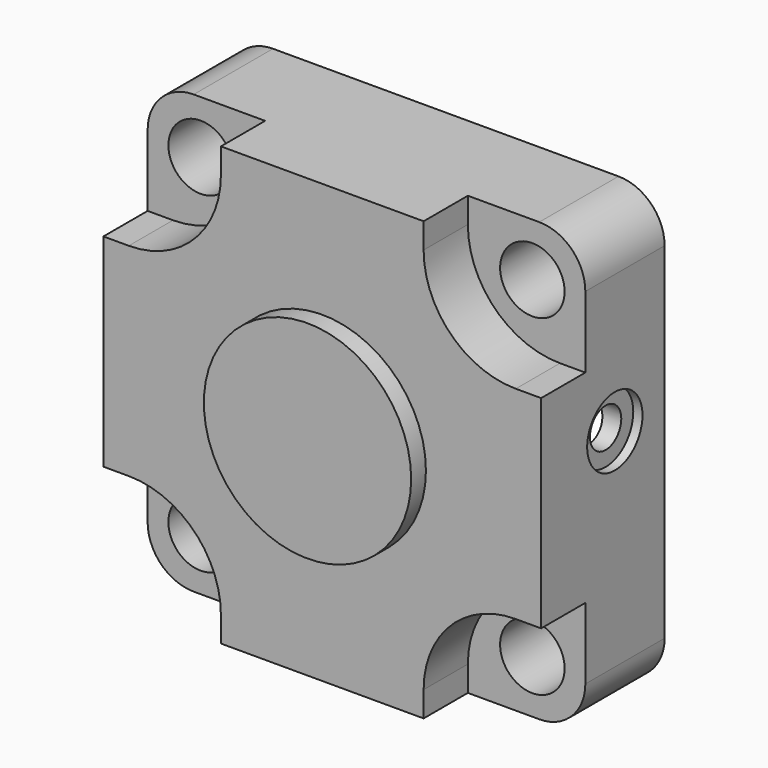
from build123d import *

# Parameters (mm, degrees)
F0_R      = 7
F1_DEPTH  = 16.75
F2_R      = 7
F3_DEPTH  = 12
F4_R      = 22.5
F5_DEPTH  = 4
F6_R      = 42
F8_DEPTH  = 18
F7_R      = 7.5
F7_R_2    = 4.25
F9_DEPTH  = 2
F10_DEPTH = 8


with BuildPart() as f1:
    # F0 (on Front) → F1 (new body, symmetric)
    with BuildSketch(Plane.XZ):
        with BuildLine():
            Line((-37.5, -47.5), (37.5, -47.5))
            ThreePointArc((37.5, -47.5), (44.5710678119, -44.5710678119), (47.5, -37.5))
            Line((47.5, -37.5), (47.5, 37.5))
            ThreePointArc((47.5, 37.5), (44.5710678119, 44.5710678119), (37.5, 47.5))
            Line((37.5, 47.5), (-37.5, 47.5))
            ThreePointArc((-37.5, 47.5), (-44.5710678119, 44.5710678119), (-47.5, 37.5))
            Line((-47.5, 37.5), (-47.5, -37.5))
            ThreePointArc((-47.5, -37.5), (-44.5710678119, -44.5710678119), (-37.5, -47.5))
        make_face()
        with Locations((-36, -36)):
            Circle(F0_R, mode=Mode.SUBTRACT)
        with Locations((36, -36)):
            Circle(F0_R, mode=Mode.SUBTRACT)
        with Locations((-36, 36)):
            Circle(F0_R, mode=Mode.SUBTRACT)
        with Locations((36, 36)):
            Circle(F0_R, mode=Mode.SUBTRACT)
    extrude(amount=F1_DEPTH, both=True)

    # F2 (on face) → F3 (cut)
    with BuildSketch(Plane.XZ.offset(16.75)):
        with BuildLine():
            Line((22, -42), (22, -47.5))
            Line((22, -47.5), (37.5, -47.5))
            ThreePointArc((37.5, -47.5), (44.5710678119, -44.5710678119), (47.5, -37.5))
            Line((47.5, -37.5), (47.5, -22))
            Line((47.5, -22), (42, -22))
            ThreePointArc((42, -22), (27.8578643763, -27.8578643763), (22, -42))
        make_face()
        with Locations((36, -36)):
            Circle(F2_R, mode=Mode.SUBTRACT)
        with BuildLine():
            Line((37.5, 47.5), (22, 47.5))
            Line((22, 47.5), (22, 42))
            ThreePointArc((22, 42), (27.8578643763, 27.8578643763), (42, 22))
            Line((42, 22), (47.5, 22))
            Line((47.5, 22), (47.5, 37.5))
            ThreePointArc((47.5, 37.5), (44.5710678119, 44.5710678119), (37.5, 47.5))
        make_face()
        with Locations((36, 36)):
            Circle(F2_R, mode=Mode.SUBTRACT)
        with BuildLine():
            Line((-47.5, 37.5), (-47.5, 22))
            Line((-47.5, 22), (-42, 22))
            ThreePointArc((-42, 22), (-27.8578643763, 27.8578643763), (-22, 42))
            Line((-22, 42), (-22, 47.5))
            Line((-22, 47.5), (-37.5, 47.5))
            ThreePointArc((-37.5, 47.5), (-44.5710678119, 44.5710678119), (-47.5, 37.5))
        make_face()
        with Locations((-36, 36)):
            Circle(F2_R, mode=Mode.SUBTRACT)
        with BuildLine():
            Line((-42, -22), (-47.5, -22))
            Line((-47.5, -22), (-47.5, -37.5))
            ThreePointArc((-47.5, -37.5), (-44.5710678119, -44.5710678119), (-37.5, -47.5))
            Line((-37.5, -47.5), (-22, -47.5))
            Line((-22, -47.5), (-22, -42))
            ThreePointArc((-22, -42), (-27.8578643763, -27.8578643763), (-42, -22))
        make_face()
        with Locations((-36, -36)):
            Circle(F2_R, mode=Mode.SUBTRACT)
    extrude(amount=-F3_DEPTH, mode=Mode.SUBTRACT)

    # F4 (on face) → F5 (join)
    with BuildSketch(Plane.XZ.offset(16.75)):
        Circle(F4_R)
    extrude(amount=F5_DEPTH)

    # F6 (on face) → F8 (cut)
    with BuildSketch(Plane(origin=(0, 16.75, 0), x_dir=(-1, 0, 0), z_dir=(0, 1, 0))):
        Circle(F6_R)
    extrude(amount=-F8_DEPTH, mode=Mode.SUBTRACT)

    # F7 (on face) → F9 (cut)
    with BuildSketch(Plane.YZ.offset(47.5)):
        with Locations((3.25, 7.547759451)):
            Circle(F7_R)
        with Locations((3.25, 7.547759451)):
            Circle(F7_R_2, mode=Mode.SUBTRACT)
    extrude(amount=-F9_DEPTH, mode=Mode.SUBTRACT)

    # F10 (cut): a face of the model
    f10_faces = [f1.faces().sort_by_distance(p)[0] for p in [
        (47.5, 3.25, 7.547759451),
    ]]
    extrude(f10_faces, amount=-F10_DEPTH, mode=Mode.SUBTRACT)


solid = f1.part
